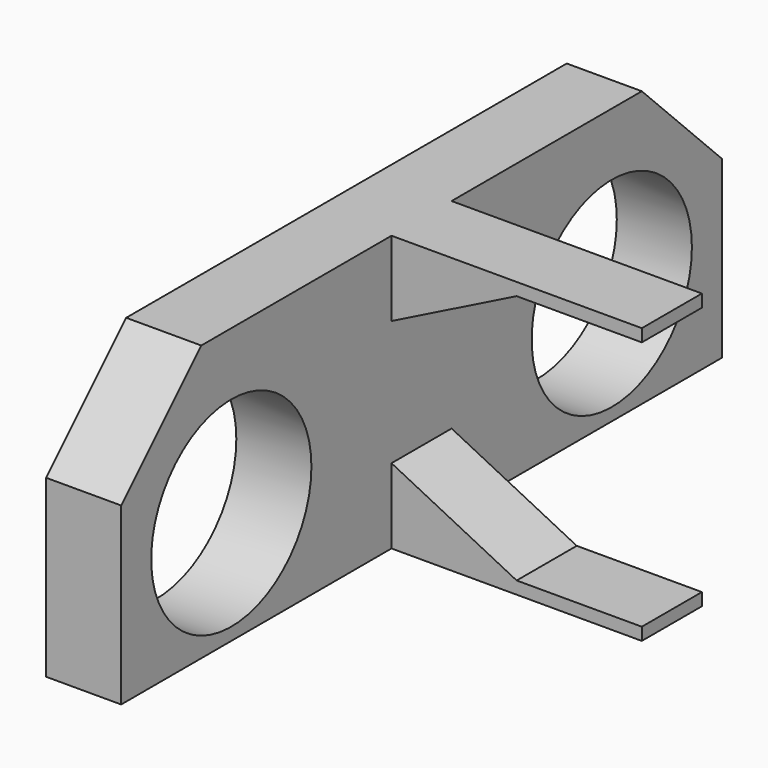
from build123d import *

# Parameters (mm, degrees)
F0_W     = 300
F0_H     = 110
F1_DEPTH = 30
F2_R     = 40
F3_DEPTH = 30
F4_W     = 30
F4_H     = 30
F5_DEPTH = 100
F7_DEPTH = 30
F8_SIZE  = 40


with BuildPart() as f1:
    # F0 (on Right) → F1 (new body)
    with BuildSketch(Plane.YZ):
        with Locations((150, 55)):
            Rectangle(F0_W, F0_H)
    extrude(amount=F1_DEPTH)

    # F2 (on face) → F3 (cut, through all)
    with BuildSketch(Plane.YZ.offset(30)):
        with Locations((55, 45)):
            Circle(F2_R)
        with Locations((245, 45)):
            Circle(F2_R)
    extrude(amount=-F3_DEPTH, mode=Mode.SUBTRACT)

    # F4 (on face) → F5 (join)
    with BuildSketch(Plane.YZ.offset(30)):
        with Locations((150, 95)):
            Rectangle(F4_W, F4_H)
        with Locations((150, 15)):
            Rectangle(F4_W, F4_H)
    extrude(amount=F5_DEPTH)

    # F6 (on face) → F7 (cut, through all)
    with BuildSketch(Plane(origin=(0, 165, 0), x_dir=(-1, 0, 0), z_dir=(0, 1, 0))):
        Polygon((-80, 105), (-130, 105), (-130, 80), (-30, 80), align=None)
        Polygon((-30, 30), (-130, 30), (-130, 5), (-80, 5), align=None)
    extrude(amount=-F7_DEPTH, mode=Mode.SUBTRACT)

    # F8
    f8_edges = [f1.edges().sort_by_distance(p)[0] for p in [
        (15, 0, 110),
        (15, 300, 110),
    ]]
    chamfer(f8_edges, length=F8_SIZE)


solid = f1.part
